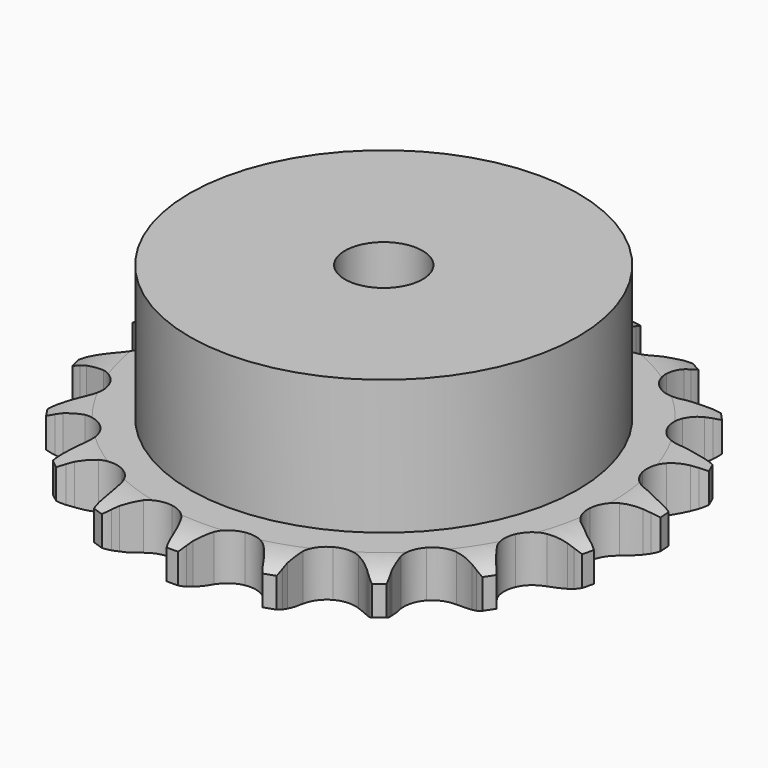
from build123d import *

# Parameters (mm, degrees)
PAD_DEPTH         = 7.2
SKETCH001_R       = 30
PAD001_DEPTH      = 28
SKETCH002_R       = 6
POCKET_DEPTH      = 0.0010001
POCKET_DEPTH_BACK = 28.001


with BuildPart() as part:
    # Sprocket → Pad (new body)
    with BuildSketch(Plane.XY):
        with BuildLine():
            ThreePointArc((-6.9707445484, 41.7733818998), (-6.0017139948, 40.6642409534), (-5.2850266596, 39.3775501917))
            Line((-5.2850266596, 39.3775501917), (-4.8769925333, 38.421171019))
            ThreePointArc((-4.8769925333, 38.421171019), (-4.2171674371, 37.1188061633), (-3.3924410992, 35.9140863442))
            ThreePointArc((-3.3924410992, 35.9140863442), (-1.8859526252, 34.6993028788), (0, 34.2652647632))
            ThreePointArc((0, 34.2652647632), (1.8859526252, 34.6993028788), (3.3924410992, 35.9140863442))
            ThreePointArc((3.3924410992, 35.9140863442), (4.2171674371, 37.1188061633), (4.8769925333, 38.421171019))
            Line((4.8769925333, 38.421171019), (5.2850266596, 39.3775501917))
            ThreePointArc((5.2850266596, 39.3775501917), (6.0017139948, 40.6642409534), (6.9707445484, 41.7733818998))
            ThreePointArc((6.9707445484, 41.7733818998), (7.5271328772, 40.4096935628), (7.7872003083, 38.9600112583))
            Line((7.7872003083, 38.9600112583), (7.8625902105, 37.9229628829))
            ThreePointArc((7.8625902105, 37.9229628829), (8.0637869856, 36.476918889), (8.4526554899, 35.0696859085))
            ThreePointArc((8.4526554899, 35.0696859085), (9.4830787166, 33.4315667541), (11.1259132808, 32.4086782045))
            ThreePointArc((11.1259132808, 32.4086782045), (13.0506117364, 32.2068311214), (14.869914056, 32.8666382601))
            Line((14.869914056, 32.8666382601), (17.0880774617, 34.7558491092))
            ThreePointArc((17.0880774617, 34.7558491092), (17.4272810662, 35.1500279482), (17.7845389833, 35.5279205561))
            ThreePointArc((17.7845389833, 35.5279205561), (18.8801820292, 36.512186866), (20.1568453111, 37.2465877901))
            ThreePointArc((20.1568453111, 37.2465877901), (20.2402981064, 35.7761288537), (20.015563292, 34.3205505783))
            Line((20.015563292, 34.3205505783), (19.7501393043, 33.3152132831))
            ThreePointArc((19.7501393043, 33.3152132831), (19.4709049659, 31.8821914553), (19.3817757002, 30.4249408424))
            ThreePointArc((19.3817757002, 30.4249408424), (19.8244713343, 28.5410016274), (21.0461612212, 27.0401084898))
            ThreePointArc((21.0461612212, 27.0401084898), (22.801034565, 26.2242494716), (24.7360010944, 26.257579942))
            Line((24.7360010944, 26.257579942), (27.4474040483, 27.3241916559))
            ThreePointArc((27.4474040483, 27.3241916559), (27.8962183257, 27.5868735678), (28.3568205526, 27.8282894558))
            ThreePointArc((28.3568205526, 27.8282894558), (29.7126893845, 28.4034707867), (31.1586391187, 28.6835479531))
            ThreePointArc((31.1586391187, 28.6835479531), (30.7601129752, 27.2656654594), (30.0749294195, 25.9619257048))
            Line((30.0749294195, 25.9619257048), (29.4974543494, 25.0972433853))
            ThreePointArc((29.4974543494, 25.0972433853), (28.7680482708, 23.8325338743), (28.2105797741, 22.4831813444))
            ThreePointArc((28.2105797741, 22.4831813444), (28.0175748746, 20.5575761151), (28.6857310285, 18.7413234498))
            ThreePointArc((28.6857310285, 18.7413234498), (30.0806115039, 17.3998634803), (31.9215585956, 16.8031054089))
            Line((31.9215585956, 16.8031054089), (34.8323785159, 16.9315340582))
            ThreePointArc((34.8323785159, 16.9315340582), (35.3421674752, 17.0342533818), (35.8562006137, 17.1130313926))
            ThreePointArc((35.8562006137, 17.1130313926), (37.3253658052, 17.2167979224), (38.7839109016, 17.0122006242))
            ThreePointArc((38.7839109016, 17.0122006242), (37.9465923108, 15.8005441423), (36.8752102837, 14.7899233405))
            Line((36.8752102837, 14.7899233405), (36.0482625157, 14.1595977428))
            ThreePointArc((36.0482625157, 14.1595977428), (34.9477271634, 13.2002514481), (33.9823297973, 12.1050202852))
            ThreePointArc((33.9823297973, 12.1050202852), (33.1745394397, 10.346418247), (33.2167567739, 8.4116252124))
            ThreePointArc((33.2167567739, 8.4116252124), (34.1004874375, 6.6899322943), (35.6479199089, 5.5277536777))
            Line((35.6479199089, 5.5277536777), (38.4427242913, 4.7040820254))
            ThreePointArc((38.4427242913, 4.7040820254), (38.9582443885, 4.6357075283), (39.4700049719, 4.5433108419))
            ThreePointArc((39.4700049719, 4.5433108419), (40.8932596781, 4.164417857), (42.206344144, 3.4973173862))
            ThreePointArc((42.206344144, 3.4973173862), (41.0209695675, 2.6231886966), (39.679489936, 2.015203293))
            Line((39.679489936, 2.015203293), (38.6926820919, 1.6875399761))
            ThreePointArc((38.6926820919, 1.6875399761), (37.340277548, 1.1375169545), (36.0715670967, 0.4150924493))
            ThreePointArc((36.0715670967, 0.4150924493), (34.7365279005, -0.9859345793), (34.1482315118, -2.8296031366))
            ThreePointArc((34.1482315118, -2.8296031366), (34.4250464338, -4.7449568609), (35.5112759657, -6.3466159364))
            Line((35.5112759657, -6.3466159364), (37.8872043894, -8.0331302862))
            ThreePointArc((37.8872043894, -8.0331302862), (38.3525910228, -8.2651891663), (38.8066218512, -8.5187479352))
            ThreePointArc((38.8066218512, -8.5187479352), (40.0297343407, -9.3392415007), (41.0550650995, -10.3965544571))
            ThreePointArc((41.0550650995, -10.3965544571), (39.6500882656, -10.8384299474), (38.1838811629, -10.9778953005))
            Line((38.1838811629, -10.9778953005), (37.1441491847, -10.9673889319))
            ThreePointArc((37.1441491847, -10.9673889319), (35.6864294661, -11.0484851515), (34.2518903932, -11.3198170942))
            ThreePointArc((34.2518903932, -11.3198170942), (32.5342745706, -12.2114460956), (31.3792155009, -13.7642000799))
            ThreePointArc((31.3792155009, -13.7642000799), (31.0191174893, -15.6656563145), (31.5264342573, -17.533231236))
            Line((31.5264342573, -17.533231236), (33.2260180114, -19.8998282844))
            ThreePointArc((33.2260180114, -19.8998282844), (33.5908393181, -20.2704243672), (33.9379391062, -20.6576681916))
            ThreePointArc((33.9379391062, -20.6576681916), (34.828366162, -21.8308491286), (35.4548327165, -23.1637983058))
            ThreePointArc((35.4548327165, -23.1637983058), (33.9825046656, -23.1255365309), (32.5504563818, -22.7813685986))
            Line((32.5504563818, -22.7813685986), (31.5704713625, -22.4338310725))
            ThreePointArc((31.5704713625, -22.4338310725), (30.1654030196, -22.0372124564), (28.7204898927, -21.8280488105))
            ThreePointArc((28.7204898927, -21.8280488105), (26.8064277696, -22.1136579473), (25.2097745918, -23.207232371))
            ThreePointArc((25.2097745918, -23.207232371), (24.2517858536, -24.8887388288), (24.1252142141, -26.819848875))
            Line((24.1252142141, -26.819848875), (24.964277027, -29.6100711103))
            ThreePointArc((24.964277027, -29.6100711103), (25.1889989577, -30.0790445598), (25.3915540576, -30.5580095626))
            ThreePointArc((25.3915540576, -30.5580095626), (25.852804092, -31.9567455129), (26.0125190702, -33.4208851846))
            ThreePointArc((26.0125190702, -33.4208851846), (24.6323893922, -32.9066324017), (23.3896845795, -32.1161271196))
            Line((23.3896845795, -32.1161271196), (22.5756431017, -31.4692195197))
            ThreePointArc((22.5756431017, -31.4692195197), (21.3754870914, -30.6378658491), (20.0767786681, -29.9708727411))
            ThreePointArc((20.0767786681, -29.9708727411), (18.1736885752, -29.6195118317), (16.3084634358, -30.1354009374))
            ThreePointArc((16.3084634358, -30.1354009374), (14.8563969155, -31.4147403024), (14.1096528696, -33.2001197355))
            Line((14.1096528696, -33.2001197355), (13.9972692661, -36.1116032839))
            ThreePointArc((13.9972692661, -36.1116032839), (14.0575397126, -36.6281335499), (14.0936001364, -37.1469164411))
            ThreePointArc((14.0936001364, -37.1469164411), (14.075689551, -38.6196326608), (13.7513453569, -40.0563005753))
            ThreePointArc((13.7513453569, -40.0563005753), (12.6129725173, -39.1217840527), (11.6942775245, -37.9706049342))
            Line((11.6942775245, -37.9706049342), (11.1343936138, -37.0944297367))
            ThreePointArc((11.1343936138, -37.0944297367), (10.2692054621, -35.9184310815), (9.2574369514, -34.8658875643))
            ThreePointArc((9.2574369514, -34.8658875643), (7.5715482299, -33.9156320151), (5.6398772146, -33.7979312133))
            ThreePointArc((5.6398772146, -33.7979312133), (3.8510868508, -34.5364672143), (2.5650917028, -35.9826424698))
            Line((2.5650917028, -35.9826424698), (1.5134401902, -38.6998829124))
            ThreePointArc((1.5134401902, -38.6998829124), (1.4027279145, -39.2079959258), (1.2683859556, -39.7103785295))
            ThreePointArc((1.2683859556, -39.7103785295), (0.7732556403, -41.0974833646), (0, -42.3509942611))
            ThreePointArc((0, -42.3509942611), (-0.7732556403, -41.0974833646), (-1.2683859556, -39.7103785295))
            Line((-1.2683859556, -39.7103785295), (-1.5134401902, -38.6998829124))
            ThreePointArc((-1.5134401902, -38.6998829124), (-1.9499039223, -37.3066769744), (-2.5650917028, -35.9826424698))
            ThreePointArc((-2.5650917028, -35.9826424698), (-3.8510868508, -34.5364672143), (-5.6398772146, -33.7979312133))
            ThreePointArc((-5.6398772146, -33.7979312133), (-7.5715482299, -33.9156320151), (-9.2574369514, -34.8658875643))
            Line((-9.2574369514, -34.8658875643), (-11.1343936138, -37.0944297367))
            ThreePointArc((-11.1343936138, -37.0944297367), (-11.4040912188, -37.5390635684), (-11.6942775245, -37.9706049342))
            ThreePointArc((-11.6942775245, -37.9706049342), (-12.6129725173, -39.1217840527), (-13.7513453569, -40.0563005753))
            ThreePointArc((-13.7513453569, -40.0563005753), (-14.075689551, -38.6196326608), (-14.0936001364, -37.1469164411))
            Line((-14.0936001364, -37.1469164411), (-13.9972692661, -36.1116032839))
            ThreePointArc((-13.9972692661, -36.1116032839), (-13.9577109607, -34.6521655444), (-14.1096528696, -33.2001197355))
            ThreePointArc((-14.1096528696, -33.2001197355), (-14.8563969155, -31.4147403024), (-16.3084634358, -30.1354009374))
            ThreePointArc((-16.3084634358, -30.1354009374), (-18.1736885752, -29.6195118317), (-20.0767786681, -29.9708727411))
            Line((-20.0767786681, -29.9708727411), (-22.5756431017, -31.4692195197))
            ThreePointArc((-22.5756431017, -31.4692195197), (-22.9751001157, -31.8021911948), (-23.3896845795, -32.1161271196))
            ThreePointArc((-23.3896845795, -32.1161271196), (-24.6323893922, -32.9066324017), (-26.0125190702, -33.4208851846))
            ThreePointArc((-26.0125190702, -33.4208851846), (-25.852804092, -31.9567455129), (-25.3915540576, -30.5580095626))
            Line((-25.3915540576, -30.5580095626), (-24.964277027, -29.6100711103))
            ThreePointArc((-24.964277027, -29.6100711103), (-24.4529834404, -28.2425542939), (-24.1252142141, -26.819848875))
            ThreePointArc((-24.1252142141, -26.819848875), (-24.2517858536, -24.8887388288), (-25.2097745918, -23.207232371))
            ThreePointArc((-25.2097745918, -23.207232371), (-26.8064277696, -22.1136579473), (-28.7204898927, -21.8280488105))
            Line((-28.7204898927, -21.8280488105), (-31.5704713625, -22.4338310725))
            ThreePointArc((-31.5704713625, -22.4338310725), (-32.0564004198, -22.6190579434), (-32.5504563818, -22.7813685986))
            ThreePointArc((-32.5504563818, -22.7813685986), (-33.9825046656, -23.1255365309), (-35.4548327165, -23.1637983058))
            ThreePointArc((-35.4548327165, -23.1637983058), (-34.828366162, -21.8308491286), (-33.9379391062, -20.6576681916))
            Line((-33.9379391062, -20.6576681916), (-33.2260180114, -19.8998282844))
            ThreePointArc((-33.2260180114, -19.8998282844), (-32.2983957372, -18.7724240573), (-31.5264342573, -17.533231236))
            ThreePointArc((-31.5264342573, -17.533231236), (-31.0191174893, -15.6656563145), (-31.3792155009, -13.7642000799))
            ThreePointArc((-31.3792155009, -13.7642000799), (-32.5342745706, -12.2114460956), (-34.2518903932, -11.3198170942))
            Line((-34.2518903932, -11.3198170942), (-37.1441491847, -10.9673889319))
            ThreePointArc((-37.1441491847, -10.9673889319), (-37.663892332, -10.984798793), (-38.1838811629, -10.9778953005))
            ThreePointArc((-38.1838811629, -10.9778953005), (-39.6500882656, -10.8384299474), (-41.0550650995, -10.3965544571))
            ThreePointArc((-41.0550650995, -10.3965544571), (-40.0297343407, -9.3392415007), (-38.8066218512, -8.5187479352))
            Line((-38.8066218512, -8.5187479352), (-37.8872043894, -8.0331302862))
            ThreePointArc((-37.8872043894, -8.0331302862), (-36.6437756946, -7.2680103899), (-35.5112759657, -6.3466159364))
            ThreePointArc((-35.5112759657, -6.3466159364), (-34.4250464338, -4.7449568609), (-34.1482315118, -2.8296031366))
            ThreePointArc((-34.1482315118, -2.8296031366), (-34.7365279005, -0.9859345793), (-36.0715670967, 0.4150924493))
            Line((-36.0715670967, 0.4150924493), (-38.6926820919, 1.6875399761))
            ThreePointArc((-38.6926820919, 1.6875399761), (-39.1899170946, 1.8398337534), (-39.679489936, 2.015203293))
            ThreePointArc((-39.679489936, 2.015203293), (-41.0209695675, 2.6231886966), (-42.206344144, 3.4973173862))
            ThreePointArc((-42.206344144, 3.4973173862), (-40.8932596781, 4.164417857), (-39.4700049719, 4.5433108419))
            Line((-39.4700049719, 4.5433108419), (-38.4427242913, 4.7040820254))
            ThreePointArc((-38.4427242913, 4.7040820254), (-37.0182339687, 5.0240049781), (-35.6479199089, 5.5277536777))
            ThreePointArc((-35.6479199089, 5.5277536777), (-34.1004874375, 6.6899322943), (-33.2167567739, 8.4116252124))
            ThreePointArc((-33.2167567739, 8.4116252124), (-33.1745394397, 10.346418247), (-33.9823297973, 12.1050202852))
            Line((-33.9823297973, 12.1050202852), (-36.0482625157, 14.1595977428))
            ThreePointArc((-36.0482625157, 14.1595977428), (-36.4691062457, 14.4650917646), (-36.8752102837, 14.7899233405))
            ThreePointArc((-36.8752102837, 14.7899233405), (-37.9465923108, 15.8005441423), (-38.7839109016, 17.0122006242))
            ThreePointArc((-38.7839109016, 17.0122006242), (-37.3253658052, 17.2167979224), (-35.8562006137, 17.1130313926))
            Line((-35.8562006137, 17.1130313926), (-34.8323785159, 16.9315340582))
            ThreePointArc((-34.8323785159, 16.9315340582), (-33.3811921952, 16.7715914512), (-31.9215585956, 16.8031054089))
            ThreePointArc((-31.9215585956, 16.8031054089), (-30.0806115039, 17.3998634803), (-28.6857310285, 18.7413234498))
            ThreePointArc((-28.6857310285, 18.7413234498), (-28.0175748746, 20.5575761151), (-28.2105797741, 22.4831813444))
            Line((-28.2105797741, 22.4831813444), (-29.4974543494, 25.0972433853))
            ThreePointArc((-29.4974543494, 25.0972433853), (-29.7963018587, 25.5228326341), (-30.0749294195, 25.9619257048))
            ThreePointArc((-30.0749294195, 25.9619257048), (-30.7601129752, 27.2656654594), (-31.1586391187, 28.6835479531))
            ThreePointArc((-31.1586391187, 28.6835479531), (-29.7126893845, 28.4034707867), (-28.3568205526, 27.8282894558))
            Line((-28.3568205526, 27.8282894558), (-27.4474040483, 27.3241916559))
            ThreePointArc((-27.4474040483, 27.3241916559), (-26.1267802849, 26.7017157525), (-24.7360010944, 26.257579942))
            ThreePointArc((-24.7360010944, 26.257579942), (-22.801034565, 26.2242494716), (-21.0461612212, 27.0401084898))
            ThreePointArc((-21.0461612212, 27.0401084898), (-19.8244713343, 28.5410016274), (-19.3817757002, 30.4249408424))
            Line((-19.3817757002, 30.4249408424), (-19.7501393043, 33.3152132831))
            ThreePointArc((-19.7501393043, 33.3152132831), (-19.894605828, 33.8147785601), (-20.015563292, 34.3205505783))
            ThreePointArc((-20.015563292, 34.3205505783), (-20.2402981064, 35.7761288537), (-20.1568453111, 37.2465877901))
            ThreePointArc((-20.1568453111, 37.2465877901), (-18.8801820292, 36.512186866), (-17.7845389833, 35.5279205561))
            Line((-17.7845389833, 35.5279205561), (-17.0880774617, 34.7558491092))
            ThreePointArc((-17.0880774617, 34.7558491092), (-16.0411263319, 33.7382948322), (-14.869914056, 32.8666382601))
            ThreePointArc((-14.869914056, 32.8666382601), (-13.0506117364, 32.2068311214), (-11.1259132808, 32.4086782045))
            ThreePointArc((-11.1259132808, 32.4086782045), (-9.4830787166, 33.4315667541), (-8.4526554899, 35.0696859085))
            Line((-8.4526554899, 35.0696859085), (-7.8625902105, 37.9229628829))
            ThreePointArc((-7.8625902105, 37.9229628829), (-7.8370205592, 38.4423685388), (-7.7872003083, 38.9600112583))
            ThreePointArc((-7.7872003083, 38.9600112583), (-7.5271328772, 40.4096935628), (-6.9707445484, 41.7733818998))
        make_face()
    extrude(amount=PAD_DEPTH)

    # Sketch → Groove (revolve, cut)
    with BuildSketch(Plane.XZ):
        with BuildLine():
            Line((35.1834313734, 0), (40.85, 0))
            Line((46.5165686266, 0), (40.85, 0))
            Line((46.5165686266, 7.2), (46.5165686266, 0))
            Line((40.85, 7.2), (46.5165686266, 7.2))
            Line((35.1834313734, 7.2), (40.85, 7.2))
            ThreePointArc((40.85, 5.9), (38.0903197441, 6.8708326483), (35.1834313734, 7.2))
            Line((40.85, 1.3), (40.85, 5.9))
            ThreePointArc((35.1834313734, 0), (38.0903197441, 0.3291673517), (40.85, 1.3))
        make_face()
    revolve(axis=Axis((0, 0, 0), (0, 0, 1)), mode=Mode.SUBTRACT)

    # Sketch001 → Pad001 (join)
    with BuildSketch(Plane.XY):
        Circle(SKETCH001_R)
    extrude(amount=PAD001_DEPTH)

    # Sketch002 → Pocket (cut, two sides)
    with BuildSketch(Plane.XY) as pocket_sk:
        Circle(SKETCH002_R)
    extrude(amount=-POCKET_DEPTH, mode=Mode.SUBTRACT)
    extrude(pocket_sk.sketch, amount=POCKET_DEPTH_BACK, mode=Mode.SUBTRACT)


solid = part.part
